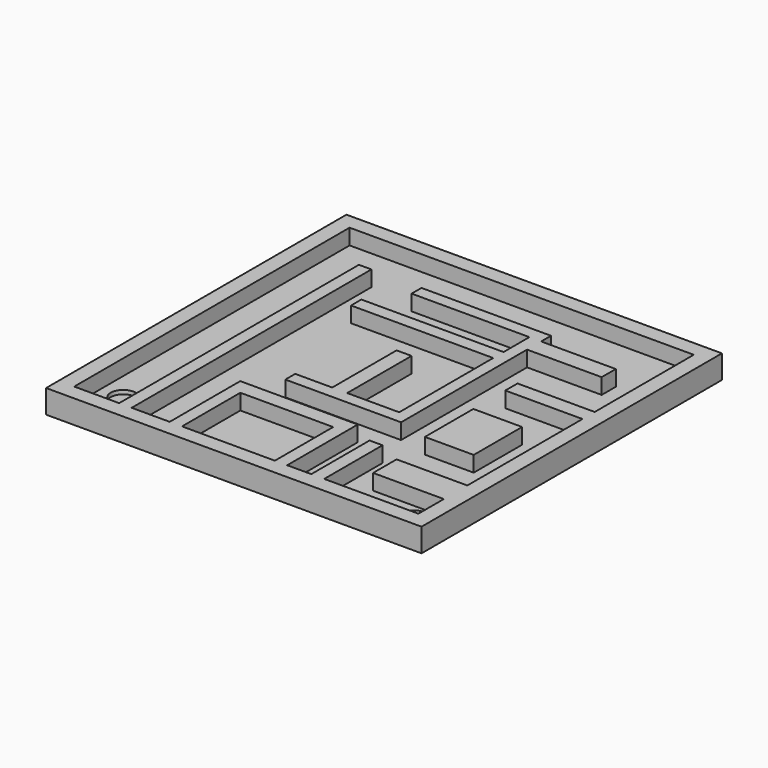
from build123d import *

# Parameters (mm, degrees)
F0_W     = 38.1
F0_H     = 38.1
F1_DEPTH = 0.79375
F2_W     = 38.1
F2_H     = 38.1
F2_W_2   = 34.925
F2_H_2   = 34.925
F3_DEPTH = 1.5875
F4_W     = 1.27
F4_H     = 30.4073842667
F4_W_2   = 7.8308774173
F4_H_2   = 1.5500376467
F4_W_3   = 4.9481987953
F4_H_3   = 6.1405338347
F4_W_4   = 7.175091283
F4_H_4   = 2.9808413237
F4_W_5   = 1.311570406
F4_H_5   = 7.3952877388
F5_DEPTH = 1.5875
F6_R     = 1.27
F7_DEPTH = 0.396875


with BuildPart() as f1:
    # F0 (on Top) → F1 (new body)
    with BuildSketch(Plane.XY):
        with Locations((2.9509142041, -6.7803348825)):
            Rectangle(F0_W, F0_H)
    extrude(amount=F1_DEPTH)

    # F2 (on face) → F3 (join)
    with BuildSketch(Plane.XY.offset(0.79375)):
        with Locations((2.9509142041, -6.7803348825)):
            Rectangle(F2_W, F2_H)
        with Locations((2.9509142041, -6.7803348825)):
            Rectangle(F2_W_2, F2_H_2, mode=Mode.SUBTRACT)
    extrude(amount=F3_DEPTH)

    # F4 (on face) → F5 (join)
    with BuildSketch(Plane.XY.offset(0.79375)):
        with Locations((-9.3176252598, -9.0391427491)):
            Rectangle(F4_W, F4_H)
        Polygon((9.5420787111, 6.1645493843), (-3.6026252598, 6.1645493843), (-3.6026252598, 4.9125957303), (8.3497418091, 4.9125957303), (8.3497418091, 1.6336699482), (-6.0775312595, 1.6336699482), (-6.0775312595, 0.3220996878), (8.3497418091, 0.3220996878), (8.3497418091, -11.6012664512), (3.0736522749, -11.6012664512), (3.0736522749, -3.4337604884), (1.5534231206, -3.4337604884), (1.5534231206, -11.6012664512), (-2.2024372593, -11.6012664512), (-2.2024372593, -12.8532201052), (8.3497418091, -12.8532201052), (9.5420787111, -12.8532201052), (9.5420787111, 3.1240906101), (17.113417387, 3.1240906101), (17.113417387, 4.9125957303), (9.5420787111, 4.9125957303), align=None)
        with Locations((16.4979754955, -2.6587416651)):
            Rectangle(F4_W_2, F4_H_2)
        with Locations((15.0566361845, -10.5579718947)):
            Rectangle(F4_W_3, F4_H_3)
        with Locations((16.8258685626, -19.5303047076)):
            Rectangle(F4_W_4, F4_H_4)
        with Locations((10.1978639141, -20.5451910131)):
            Rectangle(F4_W_5, F4_H_5)
        Polygon((-4.8255776055, -15.2975097299), (-4.8255776055, -24.2428348825), (-3.5736244172, -24.2428348825), (-3.5736244172, -16.8475471437), (5.8458349667, -16.8475471437), (5.8458349667, -24.2428348825), (7.0977881551, -24.2428348825), (7.0977881551, -15.2975097299), align=None)
    extrude(amount=F5_DEPTH)

    # F6 (on face) → F7 (cut)
    with BuildSketch(Plane.XY.offset(0.79375)):
        with Locations((-12.2321055278, -20.8758749068)):
            Circle(F6_R)
        with Locations((18.6622906476, -22.631780126)):
            Circle(F6_R)
    extrude(amount=-F7_DEPTH, mode=Mode.SUBTRACT)


solid = f1.part
